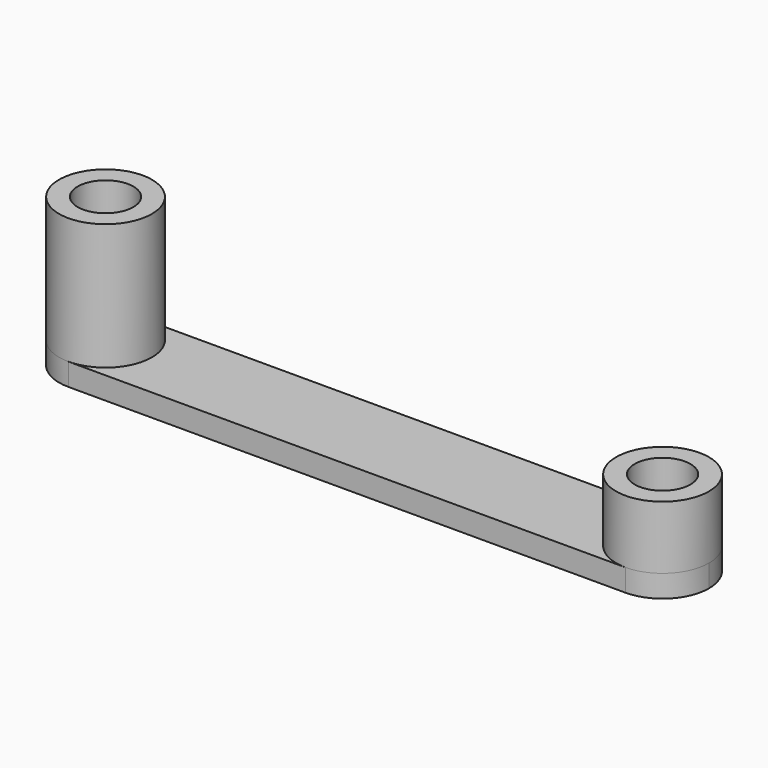
from build123d import *

# Parameters (mm, degrees)
F0_R     = 2.5
F0_R_2   = 1.5
F1_DEPTH = 6.8
F2_R     = 1.5
F3_DEPTH = 1.2
F4_R     = 2.5
F4_R_2   = 1.5
F5_DEPTH = 3.4


with BuildPart() as f1:
    # F0 (on Top) → F1 (new body)
    with BuildSketch(Plane.XY):
        Circle(F0_R)
        Circle(F0_R_2, mode=Mode.SUBTRACT)
    extrude(amount=F1_DEPTH)

    # F2 (on face) → F3 (join)
    with BuildSketch(Plane(origin=(0, 0, 0), x_dir=(1, 0, 0), z_dir=(0, 0, -1))):
        with BuildLine():
            ThreePointArc((30, -2.5), (31.767767, -1.767767), (32.5, 0))
            ThreePointArc((32.5, 0), (31.767767, 1.767767), (30, 2.5))
            ThreePointArc((30, 2.5), (27.5, 0), (30, -2.5))
        make_face()
        with BuildLine():
            ThreePointArc((2.5, 0), (1.767767, 1.767767), (0, 2.5))
            ThreePointArc((0, 2.5), (-2.5, 0), (0, -2.5))
            ThreePointArc((0, -2.5), (1.767767, -1.767767), (2.5, 0))
        make_face()
        Circle(F2_R, mode=Mode.SUBTRACT)
        Circle(F2_R)
        with BuildLine():
            Line((30, 2.5), (0, 2.5))
            ThreePointArc((0, 2.5), (1.767767, 1.767767), (2.5, 0))
            ThreePointArc((2.5, 0), (1.767767, -1.767767), (0, -2.5))
            Line((0, -2.5), (30, -2.5))
            ThreePointArc((30, -2.5), (27.5, 0), (30, 2.5))
        make_face()
    extrude(amount=F3_DEPTH)

    # F4 (on face) → F5 (join)
    with BuildSketch(Plane.XY):
        with Locations((30, 0)):
            Circle(F4_R)
        with Locations((30, 0)):
            Circle(F4_R_2, mode=Mode.SUBTRACT)
    extrude(amount=F5_DEPTH)


solid = f1.part
